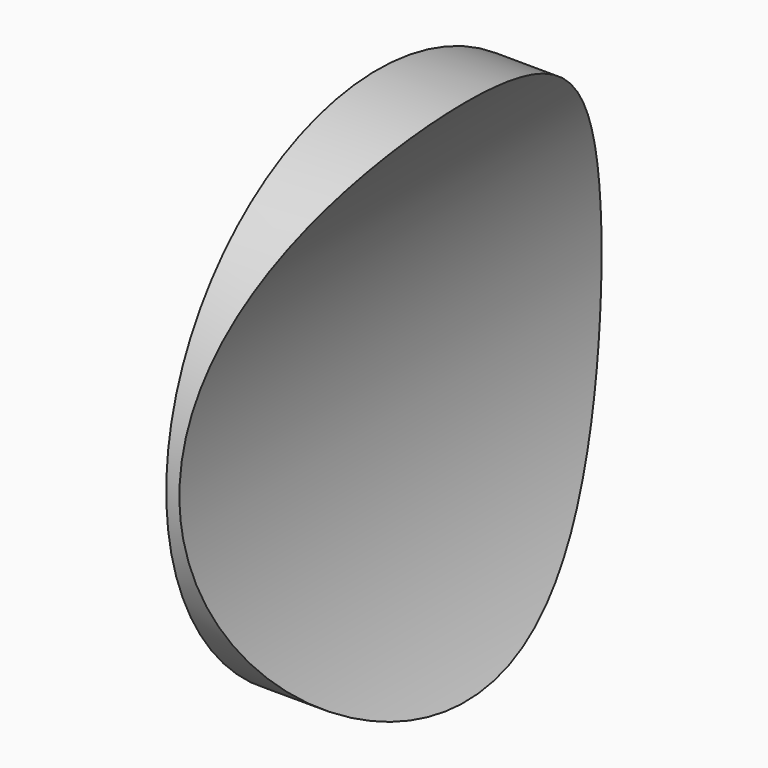
from build123d import *

# Parameters (mm, degrees)
F0_R     = 20
F1_DEPTH = 10
F2_R     = 38
F3_DEPTH = 30


with BuildPart() as f1:
    # F0 (on Right) → F1 (new body)
    with BuildSketch(Plane.YZ):
        Circle(F0_R)
    extrude(amount=F1_DEPTH)

    # F2 (on Front) → F3 (cut, symmetric)
    with BuildSketch(Plane.XZ):
        with Locations((39, 0)):
            Circle(F2_R)
    extrude(amount=F3_DEPTH, both=True, mode=Mode.SUBTRACT)


solid = f1.part
